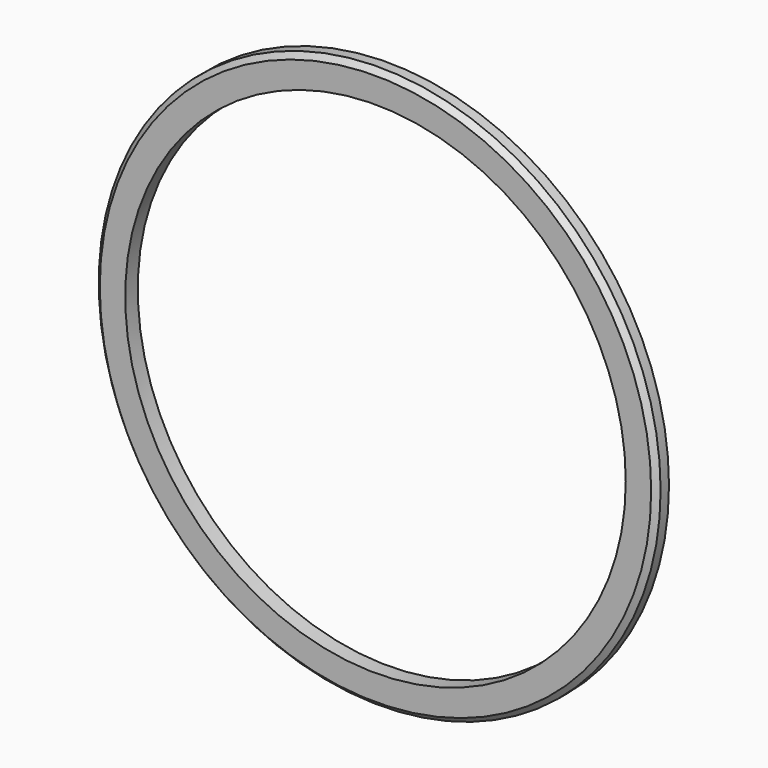
from build123d import *

# Parameters (mm, degrees)
F0_R     = 85.09
F1_DEPTH = 4.7625
F2_R     = 75.803125
F3_DEPTH = 4.7625
F4_SIZE  = 1.5875


with BuildPart() as f1:
    # F0 (on Front) → F1 (new body)
    with BuildSketch(Plane.XZ):
        Circle(F0_R)
    extrude(amount=F1_DEPTH)

    # F2 (on face) → F3 (cut)
    with BuildSketch(Plane.XZ.offset(4.7625)):
        Circle(F2_R)
    extrude(amount=-F3_DEPTH, mode=Mode.SUBTRACT)

    # F4
    f4_edges = [f1.edges().sort_by_distance(p)[0] for p in [
        (-85.09, -4.7625, 0),
    ]]
    chamfer(f4_edges, length=F4_SIZE)


solid = f1.part
